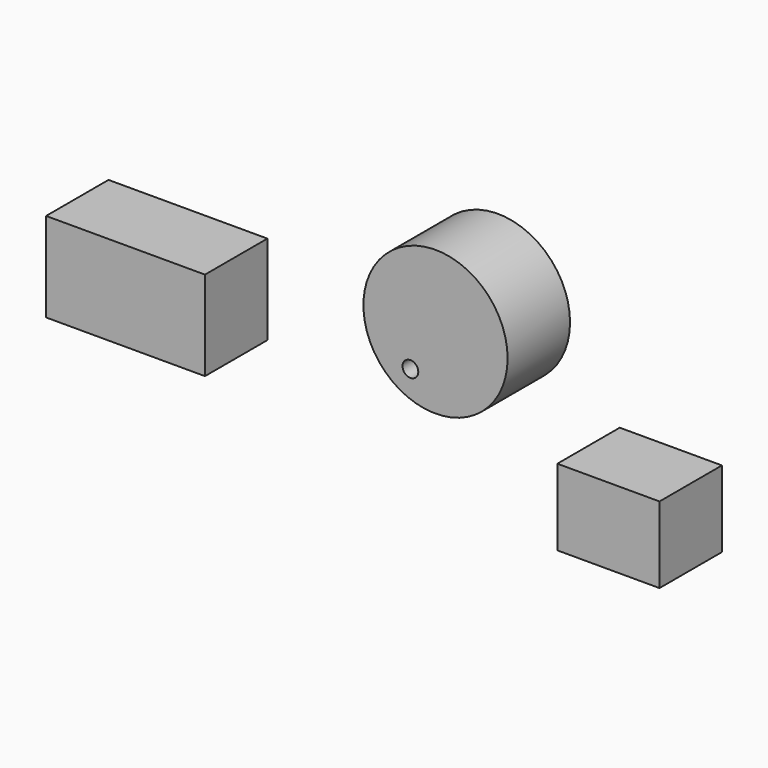
from build123d import *

# Parameters (mm, degrees)
F0_W     = 51.72731
F0_H     = 29.105974
F0_R     = 23.475267
F0_R_2   = 2.560403
F0_W_2   = 33.265274
F0_H_2   = 24.840633
F1_DEPTH = 25.4


with BuildPart() as f1:
    # F0 (on Front) → F1 (new body)
    with BuildSketch(Plane.XZ):
        with Locations((-85.324638, 43.408149)):
            Rectangle(F0_W, F0_H)
        with Locations((15.596336, 66.009365)):
            Circle(F0_R)
        with Locations((7.426188, 52.655589)):
            Circle(F0_R_2, mode=Mode.SUBTRACT)
        with Locations((71.889268, 28.654857)):
            Rectangle(F0_W_2, F0_H_2)
    extrude(amount=F1_DEPTH)


solid = f1.part
